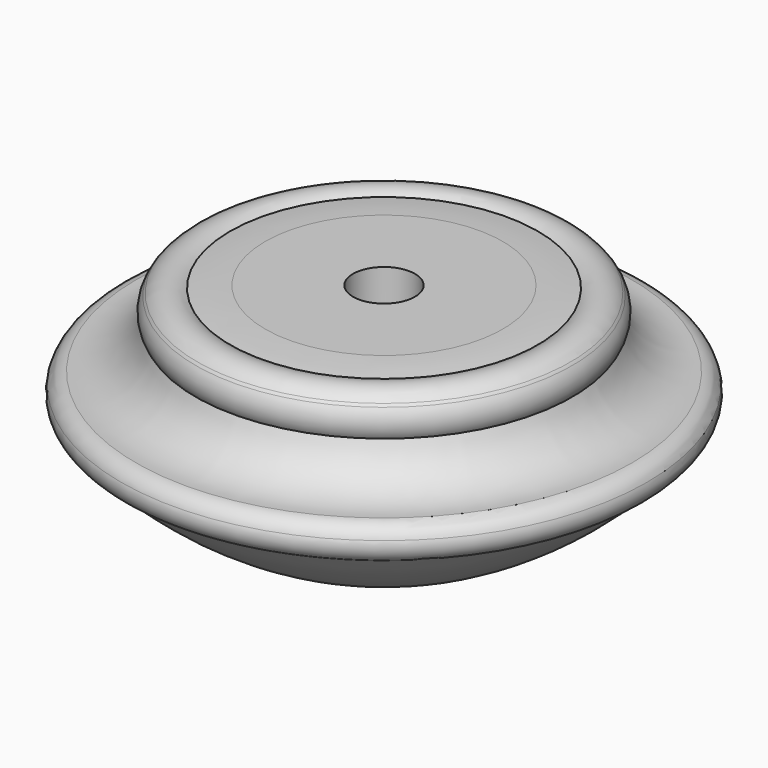
from build123d import *

# Parameters (mm, degrees)
F2_R     = 12.2638401189
F3_DEPTH = 25.4
F4_R     = 4.8821407777
F5_DEPTH = 62.738


with BuildPart() as f1:
    # F0 (on Front) → F1 (revolve)
    with BuildSketch(Plane.XZ):
        with BuildLine():
            ThreePointArc((-41.4163447982, 22.609752825), (-40.8268056121, 21.1762580364), (-39.9941914092, 19.8688876413))
            ThreePointArc((-39.9941914092, 19.8688876413), (-39.5319767858, 19.3512167605), (-39.0637259203, 18.8389993985))
            ThreePointArc((-39.0637259203, 18.8389993985), (-21.3189710508, 5.7138304561), (0, 0))
            Line((0, 0), (0, 36.4561714232))
            Line((0, 36.4561714232), (-18.7064483762, 36.4561714232))
            ThreePointArc((-18.7064483762, 36.4561714232), (-21.4772716419, 36.3557201227), (-24.2356327225, 36.0746575267))
            ThreePointArc((-24.2356327225, 36.0746575267), (-26.9375847914, 36.6895963131), (-29.3720665246, 35.3659674437))
            ThreePointArc((-29.3720665246, 35.3659674437), (-29.3429803765, 35.2182193821), (-29.3163543671, 35.0700082173))
            ThreePointArc((-29.3163543671, 35.0700082173), (-29.4922929789, 35.0235091921), (-29.6680306996, 34.9762565945))
            ThreePointArc((-29.6680306996, 34.9762565945), (-30.3251227676, 32.8025773755), (-29.6680306996, 30.6288981564))
            ThreePointArc((-29.6680306996, 30.6288981564), (-33.3024487052, 25.9515712642), (-39.0503195166, 24.520361206))
            ThreePointArc((-39.0503195166, 24.520361206), (-40.508125222, 23.9053503715), (-41.4163447982, 22.609752825))
        make_face()
        with BuildLine():
            ThreePointArc((-39.0637259203, 18.8389993985), (-39.5493577832, 19.3355136797), (-39.9941914092, 19.8688876413))
            ThreePointArc((-39.9941914092, 19.8688876413), (-40.8268056121, 21.1762580364), (-41.4163447982, 22.609752825))
            ThreePointArc((-41.4163447982, 22.609752825), (-41.1381689466, 20.1640196542), (-39.0637259203, 18.8389993985))
        make_face()
        with BuildLine():
            ThreePointArc((-39.0637259203, 18.8389993985), (-39.5319767858, 19.3512167605), (-39.9941914092, 19.8688876413))
            ThreePointArc((-39.9941914092, 19.8688876413), (-39.5493577832, 19.3355136797), (-39.0637259203, 18.8389993985))
        make_face()
        with BuildLine():
            ThreePointArc((-29.3720665246, 35.3659674437), (-29.526129804, 35.1757303533), (-29.6680306996, 34.9762565945))
            ThreePointArc((-29.6680306996, 34.9762565945), (-29.4922929789, 35.0235091921), (-29.3163543671, 35.0700082173))
            ThreePointArc((-29.3163543671, 35.0700082173), (-29.3429803765, 35.2182193821), (-29.3720665246, 35.3659674437))
        make_face()
    revolve(axis=Axis((0, 0, 18.2280857116), (0, 0, -1)))

    # F2 (on Top) → F3 (cut)
    with BuildSketch(Plane.XY):
        Circle(F2_R)
    extrude(amount=F3_DEPTH, mode=Mode.SUBTRACT)

    # F4 (on Top) → F5 (cut)
    with BuildSketch(Plane.XY):
        Circle(F4_R)
    extrude(amount=F5_DEPTH, mode=Mode.SUBTRACT)


solid = f1.part
